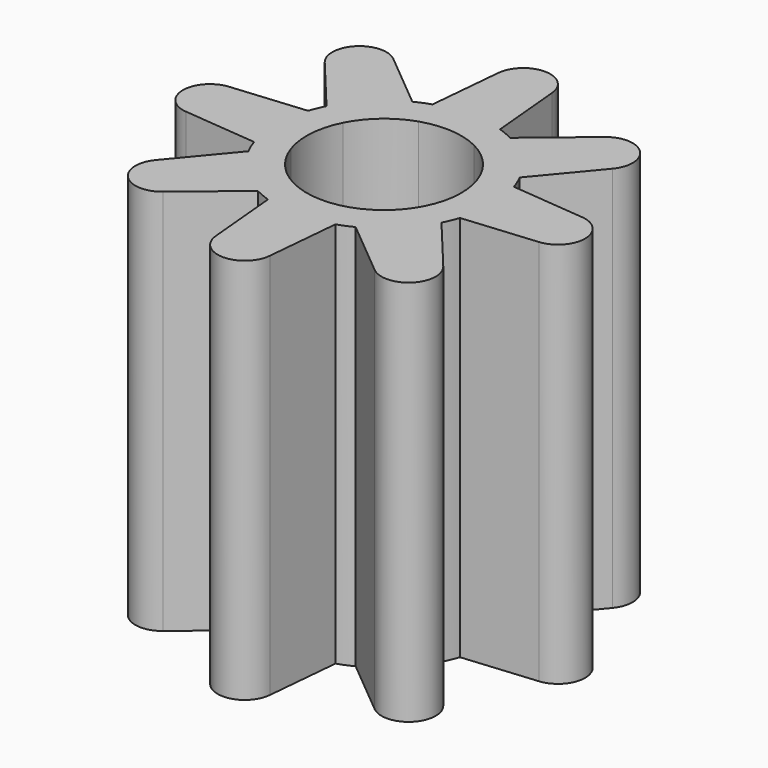
from build123d import *

# Parameters (mm, degrees)
PAD_DEPTH          = 5
POLARPATTERN_COUNT = 8


with BuildPart() as part:
    # Sketch → Pad (new body)
    with BuildSketch(Plane.XY):
        with BuildLine():
            ThreePointArc((0.451745, 0.892147), (0.075949, 0.997112), (-0.311411, 0.950275))
            Line((-0.435975, 1.330386), (-0.311411, 0.950275))
            Line((-0.348532, 2.282026), (-0.435975, 1.330386))
            ThreePointArc((0.348532, 2.282026), (0, 2.6), (-0.348532, 2.282026))
            Line((0.348532, 2.282026), (0.435975, 1.330386))
            ThreePointArc((0.632444, 1.249006), (0.535757, 1.293431), (0.435975, 1.330386))
            Line((0.632444, 1.249006), (0.451745, 0.892147))
        make_face()
    pad = extrude(amount=PAD_DEPTH)

    # PolarPattern: Pad ×8 about axis
    polarpattern_axis = Axis((0, 0, 0), (0, 0, 1))
    for i in range(1, POLARPATTERN_COUNT):
        add(pad.rotate(polarpattern_axis, i * 360 / POLARPATTERN_COUNT))


solid = part.part
